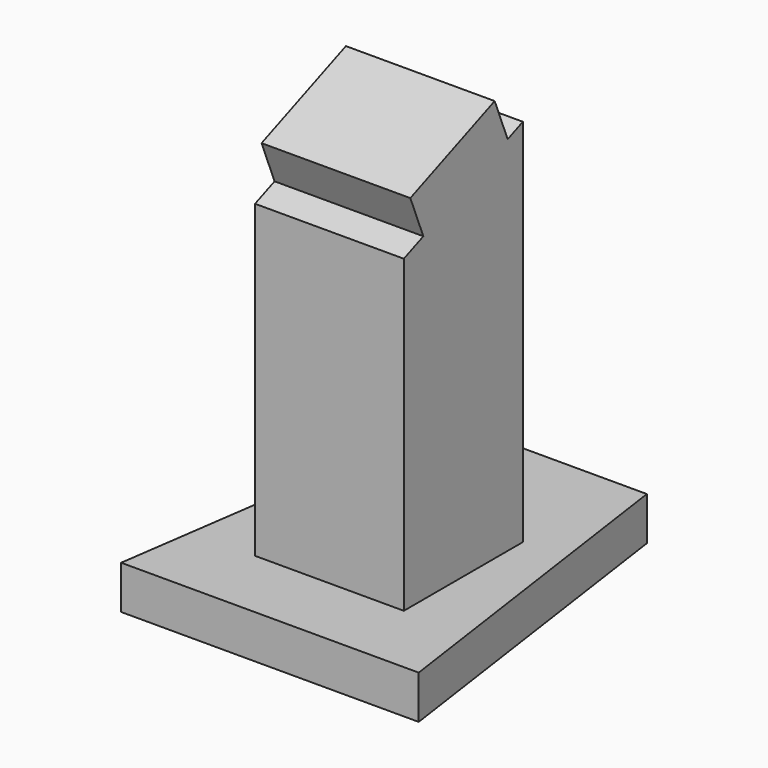
from build123d import *

# Parameters (mm, degrees)
F1_DEPTH = 22.225
F3_DEPTH = 38.1


with BuildPart() as f1:
    # F0 (on Top) → F1 (new body)
    with BuildSketch(Plane.XY):
        Polygon((-50.8, 114.3), (-76.2, -63.5), (76.2, -63.5), (50.8, 114.3), align=None)
    extrude(amount=F1_DEPTH)


with BuildPart() as f3:
    # F2 (on Right) → F3 (new body, symmetric)
    with BuildSketch(Plane.YZ):
        Polygon((-25.4, 180.975), (-25.4, 22.225), (50.8, 22.225), (50.8, 211.761798), (41.071746, 207.831329), (-12.916053, 186.018842), align=None)
        Polygon((-21.241684, 206.625503), (-12.916053, 186.018842), (41.071746, 207.831329), (32.746115, 228.43799), align=None)
    extrude(amount=F3_DEPTH, both=True)


solid = Compound([f1.part, f3.part])
